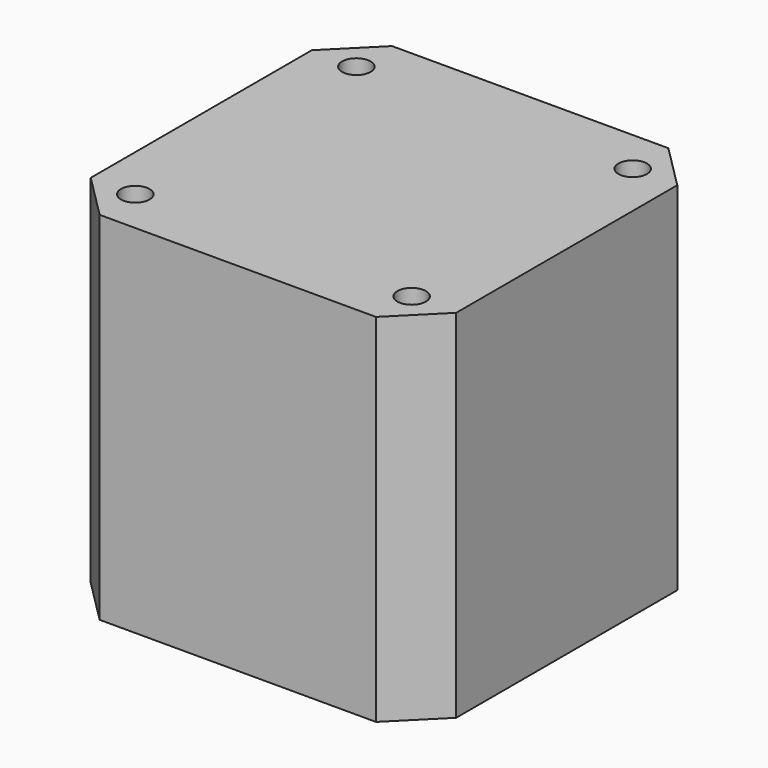
from build123d import *

# Parameters (mm, degrees)
CYLINDER002_R           = 1.6
CYLINDER002_DEPTH       = 50
CYLINDER014005153_R     = 1.6
CYLINDER014005153_DEPTH = 50
CYLINDER004_R           = 1.6
CYLINDER004_DEPTH       = 50
CYLINDER003_R           = 1.6
CYLINDER003_DEPTH       = 50
BOX009_W                = 41
BOX009_H                = 41
BOX009_DEPTH            = 40
CHAMFER_SIZE            = 5


with BuildPart() as obj1:
    # Cylinder002 → Cylinder002 (new body)
    with BuildSketch(Plane(origin=(15.5, 15.5, 0), x_dir=(1, 0, 0), z_dir=(0, 0, 1))):
        Circle(CYLINDER002_R)
    extrude(amount=CYLINDER002_DEPTH)


with BuildPart() as obj2:
    # Cylinder014005153 → Cylinder014005153 (new body)
    with BuildSketch(Plane(origin=(-15.5, -15.5, 0), x_dir=(1, 0, 0), z_dir=(0, 0, 1))):
        Circle(CYLINDER014005153_R)
    extrude(amount=CYLINDER014005153_DEPTH)


with BuildPart() as obj3:
    # Cylinder004 → Cylinder004 (new body)
    with BuildSketch(Plane(origin=(15.5, -15.5, 0), x_dir=(1, 0, 0), z_dir=(0, 0, 1))):
        Circle(CYLINDER004_R)
    extrude(amount=CYLINDER004_DEPTH)


with BuildPart() as obj4:
    # Cylinder003 → Cylinder003 (new body)
    with BuildSketch(Plane(origin=(-15.5, 15.5, 0), x_dir=(1, 0, 0), z_dir=(0, 0, 1))):
        Circle(CYLINDER003_R)
    extrude(amount=CYLINDER003_DEPTH)

    # Fusion091: union obj1, obj2, obj3
    add(obj1.part)
    add(obj2.part)
    add(obj3.part)


with BuildPart() as cut061006:
    # Box009 → Box009 (new body)
    with BuildSketch(Plane(origin=(-20.5, -20.5, 0), x_dir=(1, 0, 0), z_dir=(0, 0, 1))):
        with Locations((20.5, 20.5)):
            Rectangle(BOX009_W, BOX009_H)
    extrude(amount=BOX009_DEPTH)

    # Chamfer
    chamfer_edges = [cut061006.edges().sort_by_distance(p)[0] for p in [
        (-20.5, -20.5, 20),
        (-20.5, 20.5, 20),
        (20.5, -20.5, 20),
        (20.5, 20.5, 20),
    ]]
    chamfer(chamfer_edges, length=CHAMFER_SIZE)

    # Cut061006: cut obj4
    add(obj4.part, mode=Mode.SUBTRACT)


solid = cut061006.part
